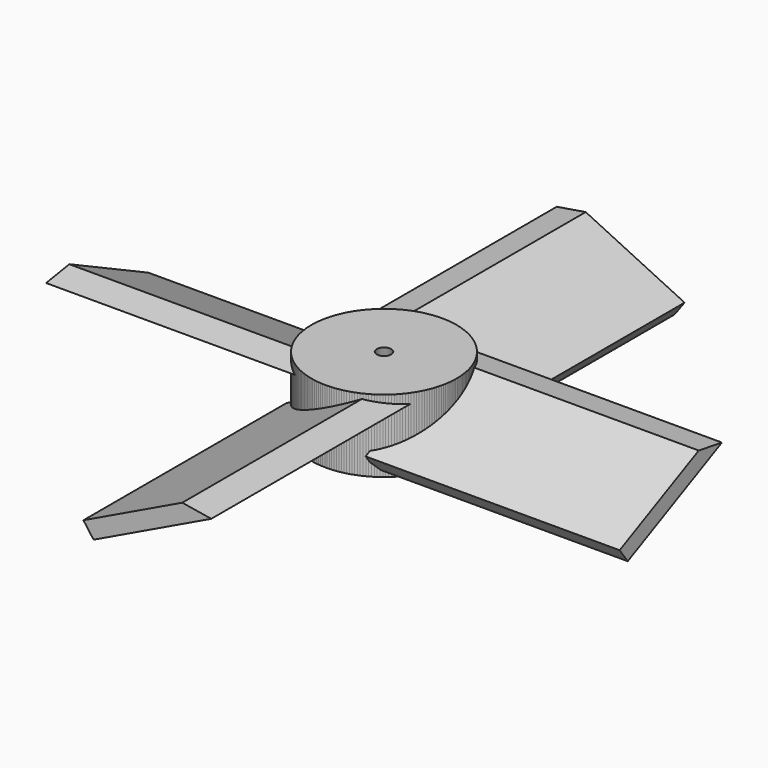
from build123d import *

# Parameters (mm, degrees)
F0_R     = 10
F1_DEPTH = 10
F2_R     = 1
F3_DEPTH = 25
F7_DEPTH = 35
F8_COUNT = 4


with BuildPart() as f1:
    # F0 (on Top) → F1 (new body)
    with BuildSketch(Plane.XY):
        Circle(F0_R)
    extrude(amount=F1_DEPTH)

    # F2 (on face) → F3 (cut)
    with BuildSketch(Plane.XY.offset(10)):
        Circle(F2_R)
    extrude(amount=-F3_DEPTH, mode=Mode.SUBTRACT)


with BuildPart() as f7:
    # F5 (on offset) → F7 (new body)
    with BuildSketch(Plane.XZ.offset(5)):
        Polygon((8.2009609186, 8.6612201649), (4.2048732173, 9.3174597414), (-9.4144095518, 2.7593591357), (-8.0167581333, 0.851893129), align=None)
    extrude(amount=F7_DEPTH)


with BuildPart() as f8_1:
    # F8: instance of F1
    add(f1.part.rotate(Axis((0, 0, 7.8388210386), (0, 0, 1)), 1 * 360 / F8_COUNT))


with BuildPart() as f8_2:
    # F8: instance of F1
    add(f1.part.rotate(Axis((0, 0, 7.8388210386), (0, 0, 1)), 2 * 360 / F8_COUNT))


with BuildPart() as f8_3:
    # F8: instance of F1
    add(f1.part.rotate(Axis((0, 0, 7.8388210386), (0, 0, 1)), 3 * 360 / F8_COUNT))


with BuildPart() as f8_4:
    # F8: instance of F7
    add(f7.part.rotate(Axis((0, 0, 7.8388210386), (0, 0, 1)), 1 * 360 / F8_COUNT))


with BuildPart() as f8_5:
    # F8: instance of F7
    add(f7.part.rotate(Axis((0, 0, 7.8388210386), (0, 0, 1)), 2 * 360 / F8_COUNT))


with BuildPart() as f8_6:
    # F8: instance of F7
    add(f7.part.rotate(Axis((0, 0, 7.8388210386), (0, 0, 1)), 3 * 360 / F8_COUNT))


solid = Compound([f1.part, f7.part, f8_1.part, f8_2.part, f8_3.part, f8_4.part, f8_5.part, f8_6.part])
